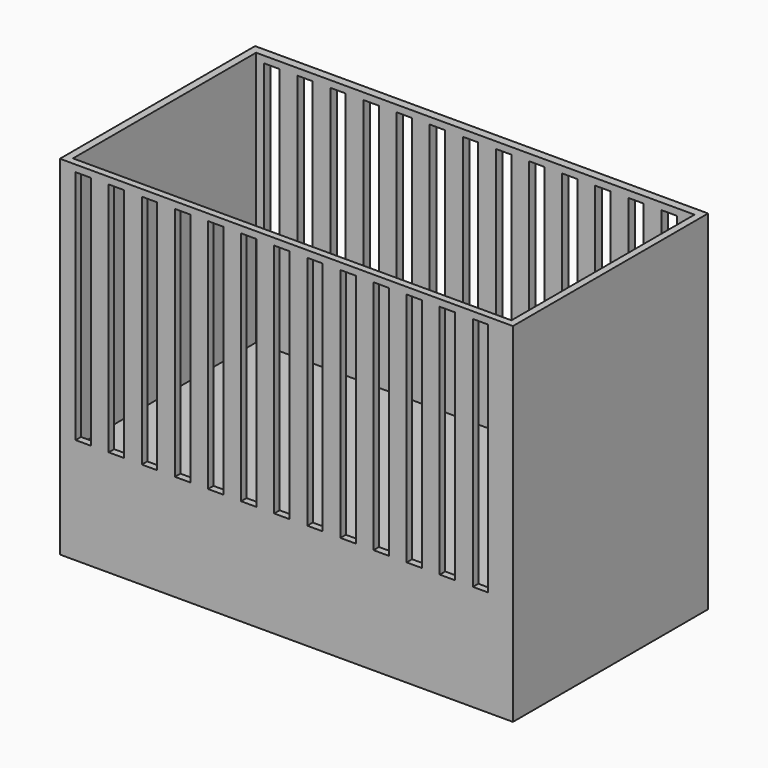
from build123d import *

# Parameters (mm, degrees)
F0_W     = 1300
F0_H     = 700
F1_DEPTH = 1000
F2_W     = 1258.1877
F2_H     = 656.777838
F3_DEPTH = 732.07246
F4_W     = 44.141058
F4_H     = 676.829636
F5_DEPTH = 781.75431


with BuildPart() as f1:
    # F0 (on Top) → F1 (new body)
    with BuildSketch(Plane.XY):
        with Locations((650, 350)):
            Rectangle(F0_W, F0_H)
    extrude(amount=F1_DEPTH)

    # F2 (on face) → F3 (cut)
    with BuildSketch(Plane.XY.offset(1000)):
        with Locations((650.875485, 348.001252)):
            Rectangle(F2_W, F2_H)
    extrude(amount=-F3_DEPTH, mode=Mode.SUBTRACT)

    # F4 (on face) → F5 (cut)
    with BuildSketch(Plane.XZ):
        with Locations((67.042565, 642.217189)):
            Rectangle(F4_W, F4_H)
        with Locations((162.042565, 642.217189)):
            Rectangle(F4_W, F4_H)
        with Locations((257.042565, 642.217189)):
            Rectangle(F4_W, F4_H)
        with Locations((352.042565, 642.217189)):
            Rectangle(F4_W, F4_H)
        with Locations((447.042565, 642.217189)):
            Rectangle(F4_W, F4_H)
        with Locations((542.042565, 642.217189)):
            Rectangle(F4_W, F4_H)
        with Locations((637.042565, 642.217189)):
            Rectangle(F4_W, F4_H)
        with Locations((732.042565, 642.217189)):
            Rectangle(F4_W, F4_H)
        with Locations((827.042565, 642.217189)):
            Rectangle(F4_W, F4_H)
        with Locations((922.042565, 642.217189)):
            Rectangle(F4_W, F4_H)
        with Locations((1017.042565, 642.217189)):
            Rectangle(F4_W, F4_H)
        with Locations((1112.042565, 642.217189)):
            Rectangle(F4_W, F4_H)
        with Locations((1207.042565, 642.217189)):
            Rectangle(F4_W, F4_H)
    extrude(amount=-F5_DEPTH, mode=Mode.SUBTRACT)


solid = f1.part
